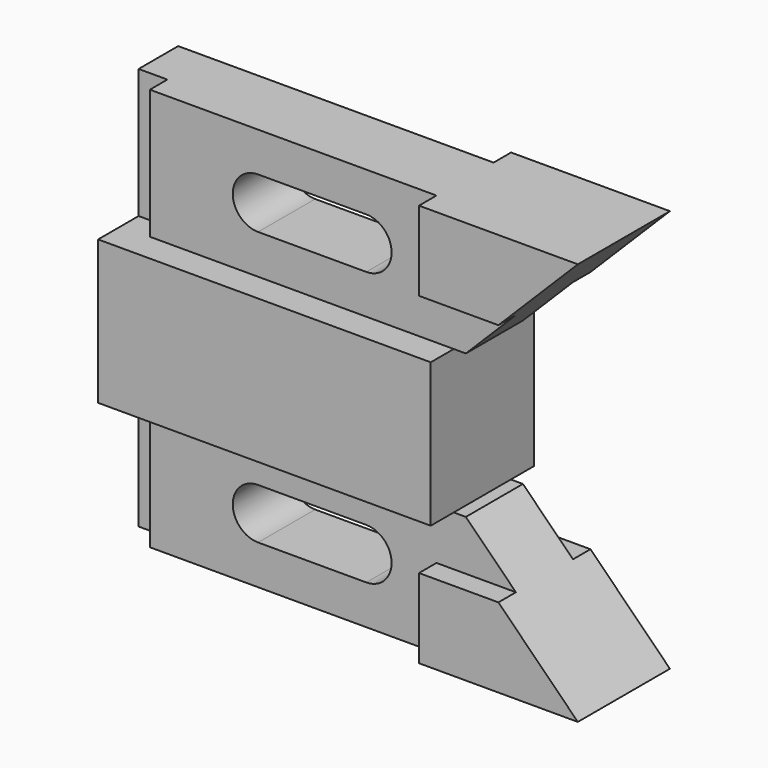
from build123d import *

# Parameters (mm, degrees)
F1_DEPTH = 14.224
F2_DEPTH = 7.874
F3_DEPTH = 12.7
F0_W     = 6.35
F0_H     = 28.575
F4_DEPTH = 12.7
F5_DEPTH = 9.652
F6_DEPTH = 4.826


with BuildPart() as f1:
    # F0 (on Front) → F1 (new body, symmetric)
    with BuildSketch(Plane.XZ):
        Polygon((-45.974, 15.875), (-52.324, 15.875), (-52.324, -15.875), (-45.974, -15.875), (21.082, -15.875), (21.082, 15.875), align=None)
    extrude(amount=F1_DEPTH, both=True)

    # F0 (on Front) → F2 (join, symmetric)
    with BuildSketch(Plane.XZ):
        Polygon((17.272, 44.45), (-45.974, 44.45), (-45.974, 15.875), (21.082, 15.875), (23.749, 15.875), (34.798, 26.924), (17.272, 26.924), align=None)
        with BuildLine():
            Line((1.778, 24.5745), (-22.098, 24.5745))
            ThreePointArc((-22.098, 24.5745), (-27.686, 30.1625), (-22.098, 35.7505))
            Line((-22.098, 35.7505), (1.778, 35.7505))
            ThreePointArc((1.778, 35.7505), (7.366, 30.1625), (1.778, 24.5745))
        make_face(mode=Mode.SUBTRACT)
        Polygon((21.082, -15.875), (-45.974, -15.875), (-45.974, -44.45), (17.272, -44.45), (17.272, -26.924), (34.798, -26.924), (23.749, -15.875), align=None)
        with BuildLine():
            ThreePointArc((-22.098, -35.7505), (-27.686, -30.1625), (-22.098, -24.5745))
            Line((-22.098, -24.5745), (1.778, -24.5745))
            ThreePointArc((1.778, -24.5745), (7.366, -30.1625), (1.778, -35.7505))
            Line((1.778, -35.7505), (-22.098, -35.7505))
        make_face(mode=Mode.SUBTRACT)
    extrude(amount=F2_DEPTH, both=True)

    # F0 (on Front) → F3 (join, symmetric)
    with BuildSketch(Plane.XZ):
        Polygon((52.324, 44.45), (17.272, 44.45), (17.272, 26.924), (34.798, 26.924), align=None)
        Polygon((17.272, -26.924), (17.272, -44.45), (52.324, -44.45), (34.798, -26.924), align=None)
    extrude(amount=F3_DEPTH, both=True)

    # F0 (on Front) → F4 (join, symmetric)
    with BuildSketch(Plane.XZ):
        with Locations((-49.149, 30.1625)):
            Rectangle(F0_W, F0_H)
        with Locations((-49.149, -30.1625)):
            Rectangle(F0_W, F0_H)
    extrude(amount=F4_DEPTH, both=True)

    # F5 (cut): faces of the model
    f5_faces = [f1.faces().sort_by_distance(p)[0] for p in [
        (-49.149, -12.7, 30.1625),
        (-49.149, -12.7, -30.1625),
    ]]
    extrude(f5_faces, amount=-F5_DEPTH, mode=Mode.SUBTRACT)

    # F6 (cut): faces of the model
    f6_faces = [f1.faces().sort_by_distance(p)[0] for p in [
        (-49.149, 12.7, 30.1625),
        (-49.149, 12.7, -30.1625),
    ]]
    extrude(f6_faces, amount=-F6_DEPTH, mode=Mode.SUBTRACT)


solid = f1.part
